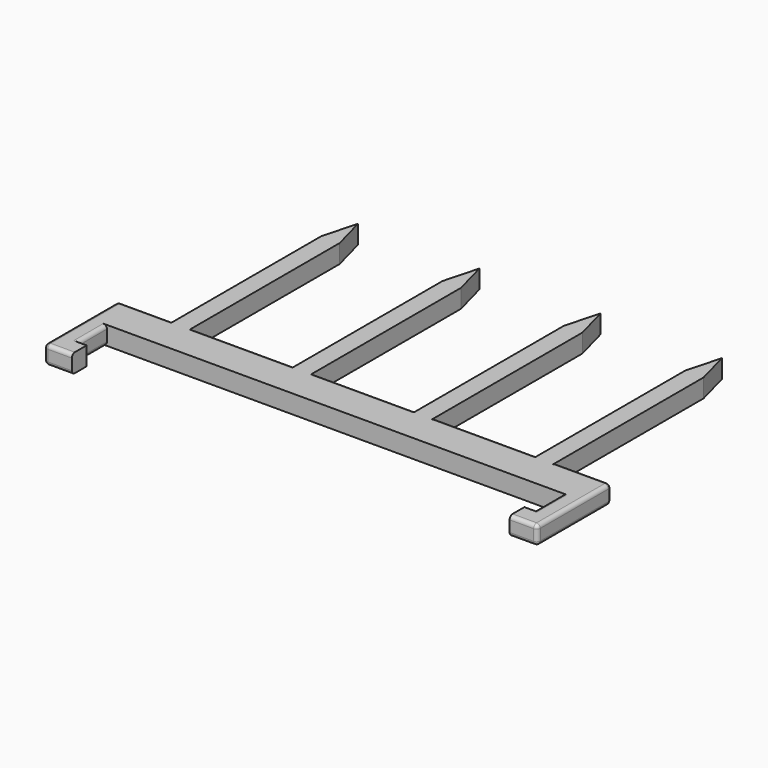
from build123d import *

# Parameters (mm, degrees)
PAD_DEPTH = 5
FILLET_R  = 1


with BuildPart() as part:
    # Sketch → Pad (new body)
    with BuildSketch(Plane.XY):
        Polygon((0, 0), (7.5, 0), (7.5, 5), (5, 5), (5, 15), (128.5, 15), (128.5, 5), (126, 5), (126, 0), (133.5, 0), (133.5, 25), (118.5, 25), (118.5, 75), (116, 84.330127), (113.5, 75), (113.5, 25), (85.666667, 25), (85.666667, 75), (83.166667, 84.330127), (80.666667, 75), (80.666667, 25), (52.833333, 25), (52.833333, 75), (50.333333, 84.330127), (47.833333, 75), (47.833333, 25), (20, 25), (20, 75), (17.5, 84.330127), (15, 75), (15, 25), (0, 25), align=None)
    extrude(amount=PAD_DEPTH)

    # Fillet
    fillet_edges = [part.edges().sort_by_distance(p)[0] for p in [
        (0, 12.5, 5),
        (0, 12.5, 0),
        (3.75, 0, 5),
        (3.75, 0, 0),
        (7.5, 25, 5),
        (33.916667, 25, 5),
        (66.75, 25, 5),
        (99.583333, 25, 5),
        (126, 25, 5),
        (133.5, 12.5, 5),
        (129.75, 0, 5),
        (133.5, 0, 2.5),
        (129.75, 0, 0),
        (0, 0, 2.5),
        (7.5, 25, 0),
        (33.916667, 25, 0),
        (66.75, 25, 0),
        (99.583333, 25, 0),
        (126, 25, 0),
        (133.5, 25, 2.5),
        (133.5, 12.5, 0),
        (0, 25, 2.5),
        (128.5, 10, 0),
        (128.5, 10, 5),
        (5, 10, 0),
        (5, 10, 5),
    ]]
    fillet(fillet_edges, radius=FILLET_R)


solid = part.part
